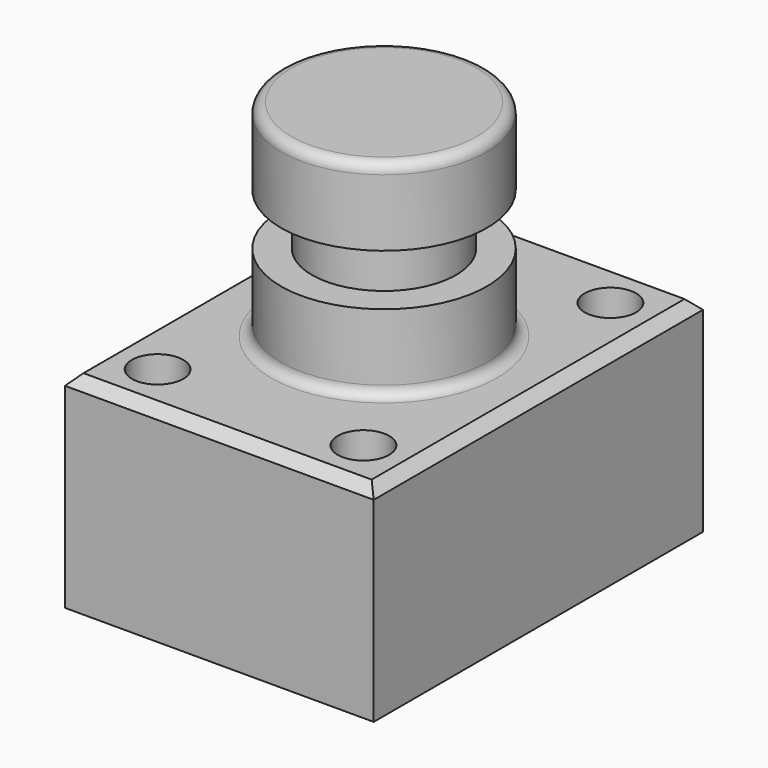
from build123d import *

# Parameters (mm, degrees)
F0_W      = 76.2
F0_H      = 101.6
F1_DEPTH  = 25.4
F2_W      = 76.2
F2_H      = 101.6
F2_R      = 6.35
F3_DEPTH  = 25.4
F4_W      = 25.4
F4_H      = 50.8
F6_W      = 18.3004425924
F6_H      = 12.7
F8_R      = 2.54
F9_SIZE   = 2.54
F10_DEPTH = 25.4


with BuildPart() as f1:
    # F0 (on Top) → F1 (new body)
    with BuildSketch(Plane.XY):
        Rectangle(F0_W, F0_H)
    extrude(amount=F1_DEPTH)

    # F2 (on face) → F3 (join)
    with BuildSketch(Plane.XY.offset(25.4)):
        Rectangle(F2_W, F2_H)
        with Locations((-25.4, -38.1)):
            Circle(F2_R, mode=Mode.SUBTRACT)
        with Locations((25.4, -38.1)):
            Circle(F2_R, mode=Mode.SUBTRACT)
        with Locations((-25.4, 38.1)):
            Circle(F2_R, mode=Mode.SUBTRACT)
        with Locations((25.4, 38.1)):
            Circle(F2_R, mode=Mode.SUBTRACT)
        with Locations((-25.4, 38.1)):
            Circle(F2_R)
    extrude(amount=F3_DEPTH)

    # F4 (on Front) → F5 (revolve)
    with BuildSketch(Plane.XZ):
        with Locations((-12.7, 76.2)):
            Rectangle(F4_W, F4_H)
    revolve(axis=Axis((0, 0, 76.2), (0, 0, -1)))

    # F6 (on Front) → F7 (revolve, cut)
    with BuildSketch(Plane.XZ):
        with Locations((-26.9302212962, 76.2)):
            Rectangle(F6_W, F6_H)
    revolve(axis=Axis((0, 0, 101.6), (0, 0, -1)), mode=Mode.SUBTRACT)

    # F8
    f8_edges = [f1.edges().sort_by_distance(p)[0] for p in [
        (25.4, 0, 101.6),
        (25.4, 0, 50.8),
    ]]
    fillet(f8_edges, radius=F8_R)

    # F9
    f9_edges = [f1.edges().sort_by_distance(p)[0] for p in [
        (0, -50.8, 50.8),
        (38.1, 0, 50.8),
        (0, 50.8, 50.8),
        (-38.1, 0, 50.8),
    ]]
    chamfer(f9_edges, length=F9_SIZE)

    # F2 (on face) → F10 (cut)
    with BuildSketch(Plane.XY.offset(25.4)):
        with Locations((-25.4, 38.1)):
            Circle(F2_R)
        with Locations((25.4, 38.1)):
            Circle(F2_R)
        with Locations((-25.4, -38.1)):
            Circle(F2_R)
        with Locations((25.4, -38.1)):
            Circle(F2_R)
    extrude(amount=F10_DEPTH, mode=Mode.SUBTRACT)


solid = f1.part
